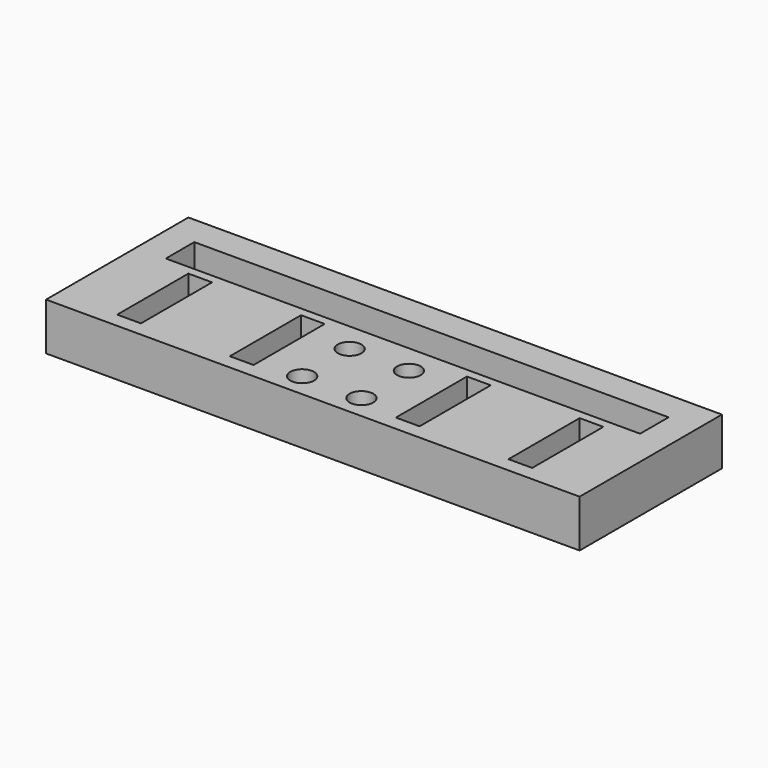
from build123d import *

# Parameters (mm, degrees)
F0_W     = 180
F0_H     = 60
F0_R     = 4
F0_W_2   = 8
F0_H_2   = 30
F0_W_3   = 160
F0_H_3   = 2
F1_DEPTH = 8
F2_DEPTH = 8


with BuildPart() as f1:
    # F0 (on Top) → F1 (new body)
    with BuildSketch(Plane.XY):
        Rectangle(F0_W, F0_H)
        with Locations((-10, -22)):
            Circle(F0_R, mode=Mode.SUBTRACT)
        with Locations((-66, -10)):
            Rectangle(F0_W_2, F0_H_2, mode=Mode.SUBTRACT)
        with Locations((-28, -10)):
            Rectangle(F0_W_2, F0_H_2, mode=Mode.SUBTRACT)
        with Locations((-10, -2)):
            Circle(F0_R, mode=Mode.SUBTRACT)
        with Locations((10, -22)):
            Circle(F0_R, mode=Mode.SUBTRACT)
        with Locations((28, -10)):
            Rectangle(F0_W_2, F0_H_2, mode=Mode.SUBTRACT)
        with Locations((10, -2)):
            Circle(F0_R, mode=Mode.SUBTRACT)
        with Locations((66, -10)):
            Rectangle(F0_W_2, F0_H_2, mode=Mode.SUBTRACT)
        Polygon((-80, 18), (-80, 20), (80, 20), (80, 18), (80, 10), (80, 8), (-80, 8), (-80, 10), align=None, mode=Mode.SUBTRACT)
        with Locations((0, 19)):
            Rectangle(F0_W_3, F0_H_3)
        with Locations((0, 9)):
            Rectangle(F0_W_3, F0_H_3)
    extrude(amount=-F1_DEPTH)

    # F0 (on Top) → F2 (join)
    with BuildSketch(Plane.XY):
        Rectangle(F0_W, F0_H)
        with Locations((-10, -22)):
            Circle(F0_R, mode=Mode.SUBTRACT)
        with Locations((-66, -10)):
            Rectangle(F0_W_2, F0_H_2, mode=Mode.SUBTRACT)
        with Locations((-28, -10)):
            Rectangle(F0_W_2, F0_H_2, mode=Mode.SUBTRACT)
        with Locations((-10, -2)):
            Circle(F0_R, mode=Mode.SUBTRACT)
        with Locations((10, -22)):
            Circle(F0_R, mode=Mode.SUBTRACT)
        with Locations((28, -10)):
            Rectangle(F0_W_2, F0_H_2, mode=Mode.SUBTRACT)
        with Locations((10, -2)):
            Circle(F0_R, mode=Mode.SUBTRACT)
        with Locations((66, -10)):
            Rectangle(F0_W_2, F0_H_2, mode=Mode.SUBTRACT)
        Polygon((-80, 18), (-80, 20), (80, 20), (80, 18), (80, 10), (80, 8), (-80, 8), (-80, 10), align=None, mode=Mode.SUBTRACT)
    extrude(amount=F2_DEPTH)


solid = f1.part
